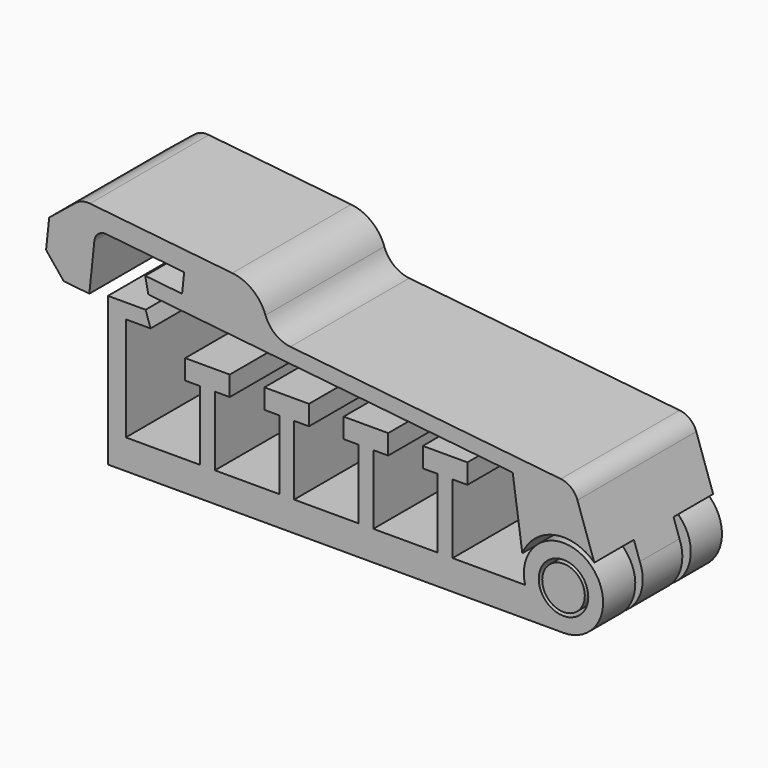
from build123d import *

# Parameters (mm, degrees)
SKETCH_R                = 2.5
PAD_DEPTH               = 15
SKETCH001_W             = 8
SKETCH001_H             = 7
POCKET_DEPTH            = 10
PAD001_DEPTH            = 15
SKETCH003_R             = 4.5
SKETCH003_R_2           = 2.15
POCKET001_DEPTH         = 5
SKETCH004_R             = 4.5
SKETCH004_R_2           = 2.15
POCKET002_DEPTH         = 5
SKETCH005_W             = 8
SKETCH005_H             = 15
PAD002_DEPTH            = 4
SKETCH006_W             = 15
SKETCH006_H             = 2
PAD003_DEPTH            = 9
SKETCH007_W             = 15
SKETCH007_H             = 8
PAD004_DEPTH            = 4.6
CHAMFER_SIZE            = 3
CHAMFER001_SIZE         = 2
FILLET_R                = 3
FILLET001_R             = 4
FILLET002_R             = 1.1
FILLET003_R             = 2
FILLET004_R             = 2
BODY001_PLACEMENT_ANGLE = 6


with BuildPart() as body:
    # Sketch → Pad (new body)
    with BuildSketch(Plane.XZ):
        with BuildLine():
            Line((-4, 0), (-50, 0))
            Line((-50, 0), (-50, 15))
            Line((-50, 15), (-46.2, 15))
            Line((-46.2, 15), (-45.7, 13.5))
            Line((-45.7, 13.5), (-48.2, 13.5))
            Line((-48.2, 13.5), (-48.2, 3))
            Line((-48.2, 3), (-40.702621, 3))
            Line((-40.702621, 3), (-40.702621, 10))
            Line((-40.702621, 10), (-42.202621, 10))
            Line((-42.202621, 10), (-42.202621, 12))
            Line((-42.202621, 12), (-37.702621, 12))
            Line((-37.702621, 12), (-37.702621, 10))
            Line((-37.702621, 10), (-39.202621, 10))
            Line((-39.202621, 10), (-39.202621, 3))
            Line((-39.202621, 3), (-32.702621, 3))
            Line((-32.702621, 3), (-32.702621, 10))
            Line((-32.702621, 10), (-34.202621, 10))
            Line((-34.202621, 10), (-34.202621, 12))
            Line((-34.202621, 12), (-29.702621, 12))
            Line((-29.702621, 12), (-29.702621, 10))
            Line((-29.702621, 10), (-31.202621, 10))
            Line((-31.202621, 10), (-31.202621, 3))
            Line((-31.202621, 3), (-24.702621, 3))
            Line((-24.702621, 3), (-24.702621, 10))
            Line((-24.702621, 10), (-26.202621, 10))
            Line((-26.202621, 10), (-26.202621, 12))
            Line((-26.202621, 12), (-21.702621, 12))
            Line((-21.702621, 12), (-21.702621, 10))
            Line((-21.702621, 10), (-23.202621, 10))
            Line((-23.202621, 10), (-23.202621, 3))
            Line((-23.202621, 3), (-16.702621, 3))
            Line((-16.702621, 3), (-16.702621, 10))
            Line((-16.702621, 10), (-18.202621, 10))
            Line((-18.202621, 10), (-18.202621, 12))
            Line((-18.202621, 12), (-13.702621, 12))
            Line((-13.702621, 12), (-13.702621, 10))
            Line((-13.702621, 10), (-15.202621, 10))
            Line((-15.202621, 10), (-15.202621, 3))
            Line((-15.202621, 3), (-7.8729833462, 3))
            ThreePointArc((-4, 0), (-1.5505102572, 7.1622776602), (-7.8729833462, 3))
        make_face()
        with Locations((-4, 4)):
            Circle(SKETCH_R, mode=Mode.SUBTRACT)
    extrude(amount=PAD_DEPTH)

    # Sketch001 (on Face1 of Pad) → Pocket (cut)
    with BuildSketch(Plane(origin=(0, 0, 0), x_dir=(1, 0, 0), z_dir=(0, 0, -1))):
        with Locations((-4, 7.437731)):
            Rectangle(SKETCH001_W, SKETCH001_H)
    extrude(amount=-POCKET_DEPTH, mode=Mode.SUBTRACT)


with BuildPart() as body001:
    # Sketch002 (on Face1 of CopyPocket) → Pad001 (new body)
    with BuildSketch(Plane.XZ.offset(15)):
        with BuildLine():
            ThreePointArc((-7.9999726116, 4.014754), (-3.0363776496, 0.1178057352), (-0.471207, 5.883513))
            Line((-4, 13.5143), (-0.471207, 5.883513))
            Line((-47.4698, 13.5143), (-4, 13.5143))
            Line((-47, 12), (-47.4698, 13.5143))
            Line((-10, 12), (-47, 12))
            Line((-7.9999726116, 4.014754), (-10, 12))
        make_face()
    extrude(amount=-PAD001_DEPTH)

    # Sketch003 (on Face7 of Pad001) → Pocket001 (cut)
    with BuildSketch(Plane.XZ.offset(15)):
        with Locations((-4, 4)):
            Circle(SKETCH003_R)
        with Locations((-4, 4)):
            Circle(SKETCH003_R_2, mode=Mode.SUBTRACT)
    extrude(amount=-POCKET001_DEPTH, mode=Mode.SUBTRACT)

    # Sketch004 (on Face4 of Pocket001) → Pocket002 (cut)
    with BuildSketch(Plane(origin=(0, 0, 0), x_dir=(-1, 0, 0), z_dir=(0, 1, 0))):
        with Locations((4, 4)):
            Circle(SKETCH004_R)
        with Locations((4, 4)):
            Circle(SKETCH004_R_2, mode=Mode.SUBTRACT)
    extrude(amount=-POCKET002_DEPTH, mode=Mode.SUBTRACT)

    # Sketch005 (on Face11 of Pocket002) → Pad002 (join)
    with BuildSketch(Plane(origin=(0, -15, 13.5143), x_dir=(1, 0, 0), z_dir=(0, 0, 1))):
        with Locations((-39.7267418753, 7.5)):
            Rectangle(SKETCH005_W, SKETCH005_H)
    extrude(amount=PAD002_DEPTH)

    # Sketch006 (on Face17 of Pad002) → Pad003 (join)
    with BuildSketch(Plane(origin=(-43.7267418753, -15, 0), x_dir=(0, -1, 0), z_dir=(-1, 0, 0))):
        with Locations((-7.5, 16.5143)):
            Rectangle(SKETCH006_W, SKETCH006_H)
    extrude(amount=PAD003_DEPTH)

    # Sketch007 (on Face19 of Pad003) → Pad004 (join)
    with BuildSketch(Plane(origin=(-52.7267418753, -15, 0), x_dir=(0, -1, 0), z_dir=(-1, 0, 0))):
        with Locations((-7.5, 13.5143)):
            Rectangle(SKETCH007_W, SKETCH007_H)
    extrude(amount=PAD004_DEPTH)

    # Chamfer
    chamfer_edges = [body001.edges().sort_by_distance(p)[0] for p in [
        (-57.326742, -7.5, 17.5143),
    ]]
    chamfer(chamfer_edges, length=CHAMFER_SIZE)

    # Chamfer001
    chamfer001_edges = [body001.edges().sort_by_distance(p)[0] for p in [
        (-57.326742, -7.5, 9.5143),
    ]]
    chamfer(chamfer001_edges, length=CHAMFER001_SIZE)

    # Fillet
    fillet_edges = [body001.edges().sort_by_distance(p)[0] for p in [
        (-35.726742, -7.5, 13.5143),
    ]]
    fillet(fillet_edges, radius=FILLET_R)

    # Fillet001
    fillet001_edges = [body001.edges().sort_by_distance(p)[0] for p in [
        (-35.726742, -7.5, 17.5143),
    ]]
    fillet(fillet001_edges, radius=FILLET001_R)

    # Fillet002
    fillet002_edges = [body001.edges().sort_by_distance(p)[0] for p in [
        (-52.726742, -7.5, 15.5143),
    ]]
    fillet(fillet002_edges, radius=FILLET002_R)

    # Fillet003
    fillet003_edges = [body001.edges().sort_by_distance(p)[0] for p in [
        (-4, -7.5, 13.5143),
    ]]
    fillet(fillet003_edges, radius=FILLET003_R)

    # Fillet004
    fillet004_edges = [body001.edges().sort_by_distance(p)[0] for p in [
        (-54.326742, -7.5, 17.5143),
    ]]
    fillet(fillet004_edges, radius=FILLET004_R)


with BuildPart() as body001_1:
    # Body001 placement: moved
    add(body001.part.moved(Location((-0.4400262716, 0, -0.3962014345))).rotate(Axis((-0.4400262716, 0, -0.3962014345), (0, 1, 0)), BODY001_PLACEMENT_ANGLE))


solid = Compound([body.part, body001_1.part])
